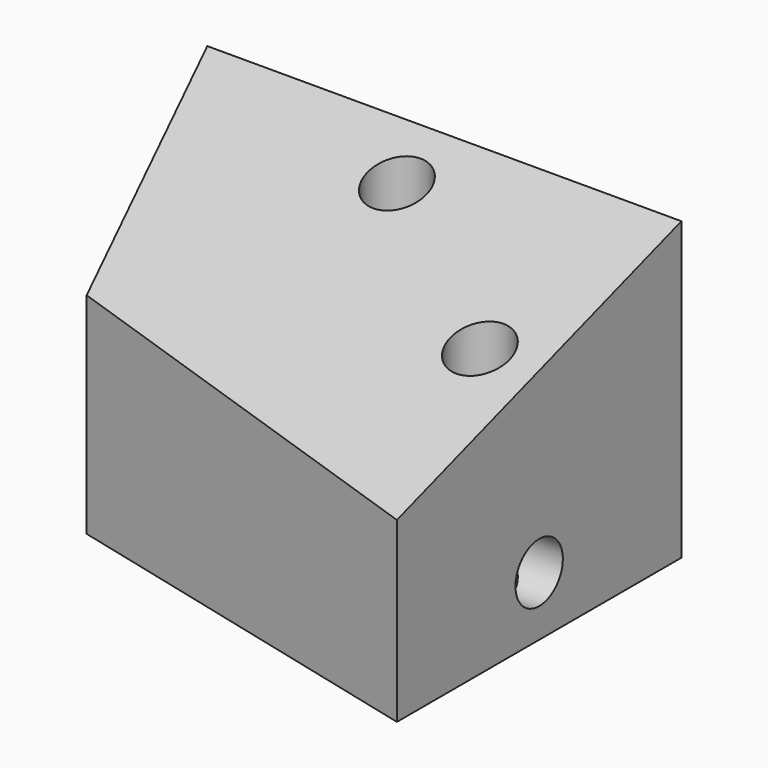
from build123d import *

# Parameters (mm, degrees)
F0_R     = 2.5
F1_DEPTH = 25
F2_R     = 2.5
F3_DEPTH = 40.001


with BuildPart() as f1:
    # F0 (on Top) → F1 (new body)
    with BuildSketch(Plane.XY):
        Polygon((20, -15), (20, 15), (-20, 15), (-12.727273, -6.818182), align=None)
        with Locations((15, 0)):
            Circle(F0_R, mode=Mode.SUBTRACT)
        with Locations((0, 10)):
            Circle(F0_R, mode=Mode.SUBTRACT)
    extrude(amount=F1_DEPTH)

    # F2 (on face) → F3 (cut, through all)
    with BuildSketch(Plane.YZ.offset(20)):
        with Locations((0, 5)):
            Circle(F2_R)
        Polygon((-15, 15), (15, 25), (-15, 25), align=None)
    extrude(amount=-F3_DEPTH, mode=Mode.SUBTRACT)


solid = f1.part
